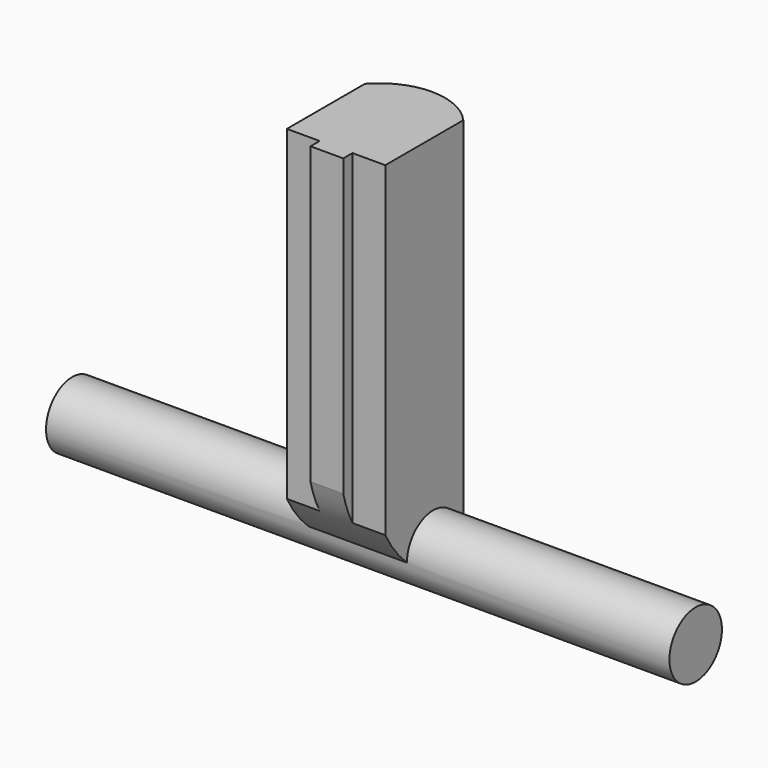
from build123d import *

# Parameters (mm, degrees)
PAD_DEPTH    = 11
SKETCH001_R  = 1
PAD001_DEPTH = 9.5
POCKET_DEPTH = 2.5


with BuildPart() as part:
    # Sketch → Pad (new body)
    with BuildSketch(Plane.XY):
        with BuildLine():
            Line((-1.5, 1.486438), (-1.5, -1.486438))
            Line((-1.5, -1.486438), (-0.5, -1.486438))
            Line((-0.5, -1.486438), (-0.5, -1.836438))
            Line((-0.5, -1.836438), (0.5, -1.836438))
            Line((0.5, -1.836438), (0.5, -1.486438))
            Line((0.5, -1.486438), (1.5, -1.486438))
            Line((1.5, -1.486438), (1.5, 1.486438))
            ThreePointArc((1.5, 1.486438), (0, 2.163562), (-1.5, 1.486438))
        make_face()
    extrude(amount=PAD_DEPTH)

    # Sketch001 → Pad001 (join, symmetric)
    with BuildSketch(Plane.YZ):
        with Locations((0.338562, 0)):
            Circle(SKETCH001_R)
    extrude(amount=PAD001_DEPTH, both=True)

    # Sketch002 → Pocket (cut, symmetric)
    with BuildSketch(Plane.YZ):
        with BuildLine():
            ThreePointArc((-1.836438, 2), (-1.397096, 0.912957), (-0.661438, 0))
            Line((-3.011438, 0), (-0.661438, 0))
            Line((-3.011438, 2), (-3.011438, 0))
            Line((-1.836438, 2), (-3.011438, 2))
        make_face()
        with BuildLine():
            ThreePointArc((1.338562, 0), (1.888846, 0.943164), (2.163562, 2))
            Line((2.163562, 2), (3.338562, 2))
            Line((3.338562, 2), (3.338562, 0))
            Line((3.338562, 0), (1.338562, 0))
        make_face()
    extrude(amount=POCKET_DEPTH, both=True, mode=Mode.SUBTRACT)


solid = part.part
